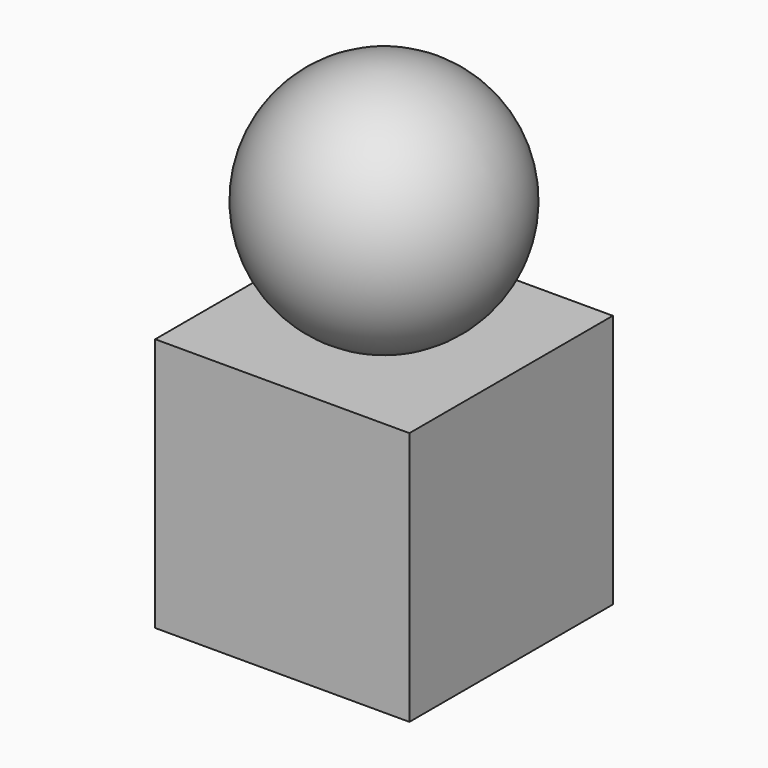
from build123d import *

# Parameters (mm, degrees)
SKETCH_W  = 10
SKETCH_H  = 10
PAD_DEPTH = 5


with BuildPart() as part:
    # Sketch → Pad (new body, symmetric)
    with BuildSketch(Plane.XZ):
        with Locations((0, 5)):
            Rectangle(SKETCH_W, SKETCH_H)
    extrude(amount=PAD_DEPTH, both=True)

    # Sketch001 → Revolution (revolve)
    with BuildSketch(Plane.XZ):
        with BuildLine():
            ThreePointArc((0, 9.64162), (4.75, 14.39162), (0, 19.14162))
            Line((0, 19.14162), (0, 9.64162))
        make_face()
    revolve(axis=Axis((0, 0, 0), (0, 0, 1)))


solid = part.part
